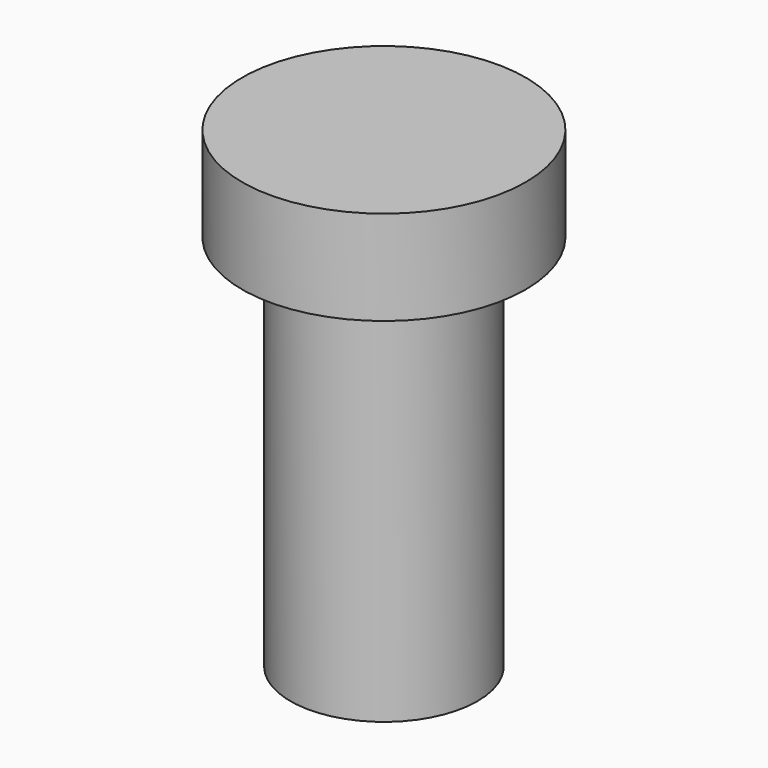
from build123d import *

# Parameters (mm, degrees)
F0_R     = 19.05
F1_DEPTH = 12.7
F2_R     = 12.573
F3_DEPTH = 50.8


with BuildPart() as f1:
    # F0 (on Top) → F1 (new body)
    with BuildSketch(Plane.XY):
        Circle(F0_R)
    extrude(amount=F1_DEPTH)

    # F2 (on face) → F3 (join)
    with BuildSketch(Plane(origin=(0, 0, 0), x_dir=(1, 0, 0), z_dir=(0, 0, -1))):
        Circle(F2_R)
    extrude(amount=F3_DEPTH)

    # F4 (on Right) → F5 (revolve, cut)
    with BuildSketch(Plane.YZ):
        with BuildLine():
            Line((0, -51.197763), (0, -44.45))
            ThreePointArc((0, -44.45), (-6.545861, -46.266907), (-11.218773, -51.197763))
            Line((-11.218773, -51.197763), (0, -51.197763))
        make_face()
    revolve(axis=Axis((0, 0, -28.575), (0, 0, -1)), mode=Mode.SUBTRACT)


solid = f1.part
